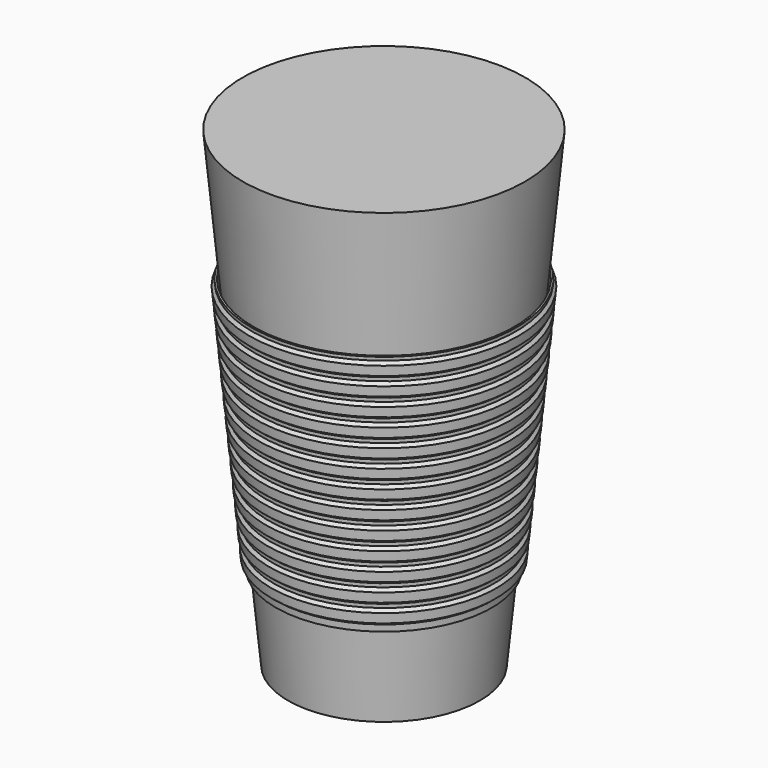
from build123d import *

# Parameters (mm, degrees)
F0_R = 30
F2_R = 44.15


with BuildPart() as f3:
    # F0 (on Top) → F3 section 0
    with BuildSketch(Plane.XY):
        Circle(F0_R)
    # F2 (on offset) → F3 section 1
    with BuildSketch(Plane.XY.offset(147.5)):
        Circle(F2_R)
    loft()


with BuildPart() as f5:
    # F4 (on Front) → F5 (revolve)
    with BuildSketch(Plane.XZ):
        Polygon((-33.17659, 26.858451), (-40.810623, 106.435819), (-41.410623, 106.435819), (-41.305579, 105.340846), (-40.847209, 100.562782), (-40.732617, 99.368266), (-40.274246, 94.590202), (-40.159654, 93.395686), (-39.701284, 88.617622), (-39.586691, 87.423106), (-39.128321, 82.645041), (-39.013728, 81.450525), (-38.555358, 76.672461), (-38.440766, 75.477945), (-37.982395, 70.699881), (-37.867803, 69.505365), (-37.409433, 64.727301), (-37.29484, 63.532785), (-36.83647, 58.754721), (-36.721877, 57.560205), (-36.263507, 52.782141), (-36.148914, 51.587625), (-35.690544, 46.80956), (-35.575952, 45.615044), (-35.117582, 40.83698), (-35.002989, 39.642464), (-34.544619, 34.8644), (-34.430026, 33.669884), (-33.971656, 28.89182), (-33.771119, 26.801417), align=None)
        Polygon((-40.847209, 100.562782), (-41.305579, 105.340846), (-42.115522, 104.359015), (-41.829041, 101.372724), align=None)
        Polygon((-34.953487, 29.701763), (-33.971656, 28.89182), (-34.430026, 33.669884), (-35.239969, 32.688053), align=None)
        Polygon((-40.274246, 94.590202), (-40.732617, 99.368266), (-41.542559, 98.386434), (-41.256078, 95.400144), align=None)
        Polygon((-35.52645, 35.674343), (-34.544619, 34.8644), (-35.002989, 39.642464), (-35.812932, 38.660633), align=None)
        Polygon((-39.701284, 88.617622), (-40.159654, 93.395686), (-40.969597, 92.413854), (-40.683115, 89.427564), align=None)
        Polygon((-36.099413, 41.646923), (-35.117582, 40.83698), (-35.575952, 45.615044), (-36.385894, 44.633213), align=None)
        Polygon((-39.128321, 82.645041), (-39.586691, 87.423106), (-40.396634, 86.441274), (-40.110152, 83.454984), align=None)
        Polygon((-36.672376, 47.619503), (-35.690544, 46.80956), (-36.148914, 51.587625), (-36.958857, 50.605793), align=None)
        Polygon((-38.555358, 76.672461), (-39.013728, 81.450525), (-39.823671, 80.468694), (-39.53719, 77.482404), align=None)
        Polygon((-37.245338, 53.592083), (-36.263507, 52.782141), (-36.721877, 57.560205), (-37.53182, 56.578373), align=None)
        Polygon((-37.982395, 70.699881), (-38.440766, 75.477945), (-39.250708, 74.496114), (-38.964227, 71.509824), align=None)
        Polygon((-37.818301, 59.564663), (-36.83647, 58.754721), (-37.29484, 63.532785), (-38.104783, 62.550953), align=None)
        Polygon((-37.409433, 64.727301), (-37.867803, 69.505365), (-38.677745, 68.523534), (-38.391264, 65.537244), align=None)
    revolve(axis=Axis((0, 0, 73.75), (0, 0, 1)))


solid = Compound([f3.part, f5.part])
